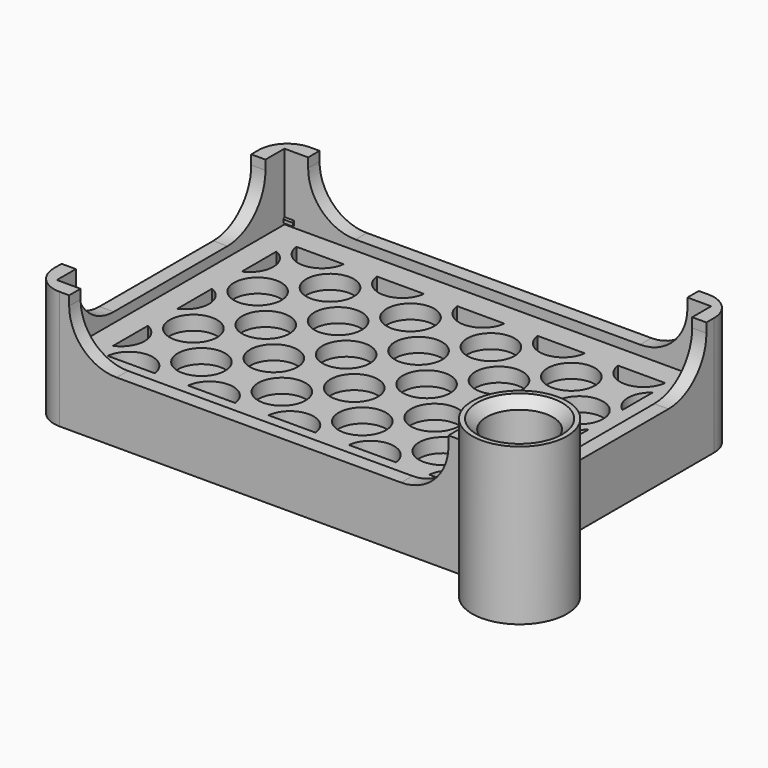
from build123d import *

# Parameters (mm, degrees)
SKETCH_W        = 96
SKETCH_H        = 66
PAD_DEPTH       = 25
SKETCH001_W     = 90
SKETCH001_H     = 60
POCKET_DEPTH    = 22
POCKET001_DEPTH = 66
POCKET002_DEPTH = 96
PAD001_DEPTH    = 5
SKETCH005_W     = 2
SKETCH005_H     = 0.3
PAD002_DEPTH    = 1
CHAMFER_SIZE    = 0.29
SKETCH009_R     = 10
PAD005_DEPTH    = 33
SKETCH010_R     = 7
POCKET004_DEPTH = 28
CHAMFER001_SIZE = 2
FILLET_R        = 6
SKETCH006_W     = 89.8
SKETCH006_H     = 59.8
PAD003_DEPTH    = 3
SKETCH007_R     = 5
POCKET003_DEPTH = 3
SKETCH008_W     = 89.8
SKETCH008_H     = 59.8
SKETCH008_W_2   = 79.8
SKETCH008_H_2   = 49.8
PAD004_DEPTH    = 3


with BuildPart() as main_case:
    # Sketch → Pad (new body)
    with BuildSketch(Plane.XY):
        Rectangle(SKETCH_W, SKETCH_H)
    extrude(amount=PAD_DEPTH)

    # Sketch001 (on Face6 of Pad) → Pocket (cut)
    with BuildSketch(Plane.XY.offset(25)):
        Rectangle(SKETCH001_W, SKETCH001_H)
    extrude(amount=-POCKET_DEPTH, mode=Mode.SUBTRACT)

    # Sketch002 (on Face6 of Pocket) → Pocket001 (cut)
    with BuildSketch(Plane.XZ.offset(33)):
        with BuildLine():
            Line((-40, 31), (40, 31))
            Line((40, 31), (40, 23))
            ThreePointArc((30, 13), (37.071068, 15.928932), (40, 23))
            Line((30, 13), (-30, 13))
            ThreePointArc((-40, 23), (-37.071068, 15.928932), (-30, 13))
            Line((-40, 23), (-40, 31))
        make_face()
    extrude(amount=-POCKET001_DEPTH, mode=Mode.SUBTRACT)

    # Sketch003 (on Face11 of Pocket001) → Pocket002 (cut)
    with BuildSketch(Plane(origin=(-48, 0, 0), x_dir=(0, -1, 0), z_dir=(-1, 0, 0))):
        with BuildLine():
            Line((-25, 31), (25, 31))
            Line((25, 31), (25, 23))
            ThreePointArc((15, 13), (22.071068, 15.928932), (25, 23))
            Line((15, 13), (-15, 13))
            ThreePointArc((-25, 23), (-22.071068, 15.928932), (-15, 13))
            Line((-25, 23), (-25, 31))
        make_face()
    extrude(amount=-POCKET002_DEPTH, mode=Mode.SUBTRACT)

    # Sketch004 (on Face34 of Pocket002) → Pad001 (join)
    with BuildSketch(Plane.XY.offset(3)):
        with BuildLine():
            ThreePointArc((-45, 27), (-42.87868, 27.87868), (-42, 30))
            Line((-45, 30), (-42, 30))
            Line((-45, 27), (-45, 30))
        make_face()
        with BuildLine():
            ThreePointArc((42, 30), (42.87868, 27.87868), (45, 27))
            Line((45, 30), (45, 27))
            Line((42, 30), (45, 30))
        make_face()
        with BuildLine():
            ThreePointArc((45, -27), (42.87868, -27.87868), (42, -30))
            Line((42, -30), (45, -30))
            Line((45, -30), (45, -27))
        make_face()
        with BuildLine():
            ThreePointArc((-42, -30), (-42.87868, -27.87868), (-45, -27))
            Line((-45, -27), (-45, -30))
            Line((-45, -30), (-42, -30))
        make_face()
    extrude(amount=PAD001_DEPTH)

    # Sketch005 (on Face38 of Pad001) → Pad002 (join)
    with BuildSketch(Plane.XY.offset(11.3)):
        with Locations((-44, 29.85)):
            Rectangle(SKETCH005_W, SKETCH005_H)
        with Locations((44, -29.85)):
            Rectangle(SKETCH005_W, SKETCH005_H)
    extrude(amount=PAD002_DEPTH)

    # Chamfer
    chamfer_edges = [main_case.edges().sort_by_distance(p)[0] for p in [
        (44, -29.7, 12.3),
        (-44, 29.7, 12.3),
    ]]
    chamfer(chamfer_edges, length=CHAMFER_SIZE)

    # Sketch009 (on Face52 of Chamfer) → Pad005 (join)
    with BuildSketch(Plane(origin=(0, 0, 0), x_dir=(1, 0, 0), z_dir=(0, 0, -1))):
        with Locations((55, 33)):
            Circle(SKETCH009_R)
    extrude(amount=-PAD005_DEPTH)

    # Sketch010 (on Face55 of Pad005) → Pocket004 (cut)
    with BuildSketch(Plane.XY.offset(33)):
        with Locations((55, -33)):
            Circle(SKETCH010_R)
    extrude(amount=-POCKET004_DEPTH, mode=Mode.SUBTRACT)

    # Chamfer001
    chamfer001_edges = [main_case.edges().sort_by_distance(p)[0] for p in [
        (48, -33, 33),
    ]]
    chamfer(chamfer001_edges, length=CHAMFER001_SIZE)

    # Fillet
    fillet_edges = [main_case.edges().sort_by_distance(p)[0] for p in [
        (-48, 33, 12.5),
        (48, 33, 12.5),
        (-48, -33, 12.5),
    ]]
    fillet(fillet_edges, radius=FILLET_R)


with BuildPart() as grate:
    # Sketch006 → Pad003 (new body)
    with BuildSketch(Plane.XY.offset(8)):
        Rectangle(SKETCH006_W, SKETCH006_H)
    extrude(amount=PAD003_DEPTH)

    # Sketch007 (on Face6 of Pad003) → Pocket003 (cut)
    with BuildSketch(Plane.XY.offset(11)):
        with Locations((-8.004189, 67.831827)):
            Circle(SKETCH007_R)
        with Locations((0.479301, 59.355834)):
            Circle(SKETCH007_R)
        with Locations((8.962791, 50.879841)):
            Circle(SKETCH007_R)
        with Locations((17.446281, 42.403848)):
            Circle(SKETCH007_R)
        with Locations((25.929771, 33.927855)):
            Circle(SKETCH007_R)
        with Locations((34.413261, 25.451862)):
            Circle(SKETCH007_R)
        with Locations((42.896751, 16.975869)):
            Circle(SKETCH007_R)
        with Locations((51.380241, 8.499876)):
            Circle(SKETCH007_R)
        with Locations((59.863731, 0.023883)):
            Circle(SKETCH007_R)
        with Locations((68.347221, -8.45211)):
            Circle(SKETCH007_R)
        with Locations((-16.480182, 59.348337)):
            Circle(SKETCH007_R)
        with Locations((-7.996692, 50.872344)):
            Circle(SKETCH007_R)
        with Locations((0.486798, 42.396351)):
            Circle(SKETCH007_R)
        with Locations((8.970288, 33.920358)):
            Circle(SKETCH007_R)
        with Locations((17.453778, 25.444365)):
            Circle(SKETCH007_R)
        with Locations((25.937268, 16.968372)):
            Circle(SKETCH007_R)
        with Locations((34.420758, 8.492379)):
            Circle(SKETCH007_R)
        with Locations((42.904248, 0.016386)):
            Circle(SKETCH007_R)
        with Locations((51.387738, -8.459607)):
            Circle(SKETCH007_R)
        with Locations((59.871228, -16.9356)):
            Circle(SKETCH007_R)
        with Locations((-24.956175, 50.864847)):
            Circle(SKETCH007_R)
        with Locations((-16.472685, 42.388854)):
            Circle(SKETCH007_R)
        with Locations((-7.989195, 33.912861)):
            Circle(SKETCH007_R)
        with Locations((0.494295, 25.436868)):
            Circle(SKETCH007_R)
        with Locations((8.977785, 16.960875)):
            Circle(SKETCH007_R)
        with Locations((17.461275, 8.484882)):
            Circle(SKETCH007_R)
        with Locations((25.944765, 0.008889)):
            Circle(SKETCH007_R)
        with Locations((34.428255, -8.467104)):
            Circle(SKETCH007_R)
        with Locations((42.911745, -16.943097)):
            Circle(SKETCH007_R)
        with Locations((51.395235, -25.41909)):
            Circle(SKETCH007_R)
        with Locations((-33.432168, 42.381357)):
            Circle(SKETCH007_R)
        with Locations((-24.948678, 33.905364)):
            Circle(SKETCH007_R)
        with Locations((-16.465188, 25.429371)):
            Circle(SKETCH007_R)
        with Locations((-7.981698, 16.953378)):
            Circle(SKETCH007_R)
        with Locations((0.501792, 8.477385)):
            Circle(SKETCH007_R)
        with Locations((8.985282, 0.001392)):
            Circle(SKETCH007_R)
        with Locations((17.468772, -8.474601)):
            Circle(SKETCH007_R)
        with Locations((25.952262, -16.950594)):
            Circle(SKETCH007_R)
        with Locations((34.435752, -25.426587)):
            Circle(SKETCH007_R)
        with Locations((42.919242, -33.90258)):
            Circle(SKETCH007_R)
        with Locations((-41.908161, 33.897867)):
            Circle(SKETCH007_R)
        with Locations((-33.424671, 25.421874)):
            Circle(SKETCH007_R)
        with Locations((-24.941181, 16.945881)):
            Circle(SKETCH007_R)
        with Locations((-16.457691, 8.469888)):
            Circle(SKETCH007_R)
        with Locations((-7.974201, -0.006105)):
            Circle(SKETCH007_R)
        with Locations((0.509289, -8.482098)):
            Circle(SKETCH007_R)
        with Locations((8.992779, -16.958091)):
            Circle(SKETCH007_R)
        with Locations((17.476269, -25.434084)):
            Circle(SKETCH007_R)
        with Locations((25.959759, -33.910077)):
            Circle(SKETCH007_R)
        with Locations((34.443249, -42.38607)):
            Circle(SKETCH007_R)
        with Locations((-50.384154, 25.414377)):
            Circle(SKETCH007_R)
        with Locations((-41.900664, 16.938384)):
            Circle(SKETCH007_R)
        with Locations((-33.417174, 8.462391)):
            Circle(SKETCH007_R)
        with Locations((-24.933684, -0.013602)):
            Circle(SKETCH007_R)
        with Locations((-16.450194, -8.489595)):
            Circle(SKETCH007_R)
        with Locations((-7.966704, -16.965588)):
            Circle(SKETCH007_R)
        with Locations((0.516786, -25.441581)):
            Circle(SKETCH007_R)
        with Locations((9.000276, -33.917574)):
            Circle(SKETCH007_R)
        with Locations((17.483766, -42.393567)):
            Circle(SKETCH007_R)
        with Locations((25.967256, -50.86956)):
            Circle(SKETCH007_R)
        with Locations((-58.860147, 16.930887)):
            Circle(SKETCH007_R)
        with Locations((-50.376657, 8.454894)):
            Circle(SKETCH007_R)
        with Locations((-41.893167, -0.021099)):
            Circle(SKETCH007_R)
        with Locations((-33.409677, -8.497092)):
            Circle(SKETCH007_R)
        with Locations((-24.926187, -16.973085)):
            Circle(SKETCH007_R)
        with Locations((-16.442697, -25.449078)):
            Circle(SKETCH007_R)
        with Locations((-7.959207, -33.925071)):
            Circle(SKETCH007_R)
        with Locations((0.524283, -42.401064)):
            Circle(SKETCH007_R)
        with Locations((9.007773, -50.877057)):
            Circle(SKETCH007_R)
        with Locations((17.491263, -59.35305)):
            Circle(SKETCH007_R)
        with Locations((-67.33614, 8.447397)):
            Circle(SKETCH007_R)
        with Locations((-58.85265, -0.028596)):
            Circle(SKETCH007_R)
        with Locations((-50.36916, -8.504589)):
            Circle(SKETCH007_R)
        with Locations((-41.88567, -16.980582)):
            Circle(SKETCH007_R)
        with Locations((-33.40218, -25.456575)):
            Circle(SKETCH007_R)
        with Locations((-24.91869, -33.932568)):
            Circle(SKETCH007_R)
        with Locations((-16.4352, -42.408561)):
            Circle(SKETCH007_R)
        with Locations((-7.95171, -50.884554)):
            Circle(SKETCH007_R)
        with Locations((0.53178, -59.360547)):
            Circle(SKETCH007_R)
        with Locations((9.01527, -67.83654)):
            Circle(SKETCH007_R)
    extrude(amount=-POCKET003_DEPTH, mode=Mode.SUBTRACT)

    # Sketch008 (on Face4 of Pocket003) → Pad004 (join)
    with BuildSketch(Plane.XY.offset(11)):
        Rectangle(SKETCH008_W, SKETCH008_H)
        Rectangle(SKETCH008_W_2, SKETCH008_H_2, mode=Mode.SUBTRACT)
    extrude(amount=-PAD004_DEPTH)


solid = Compound([main_case.part, grate.part])
